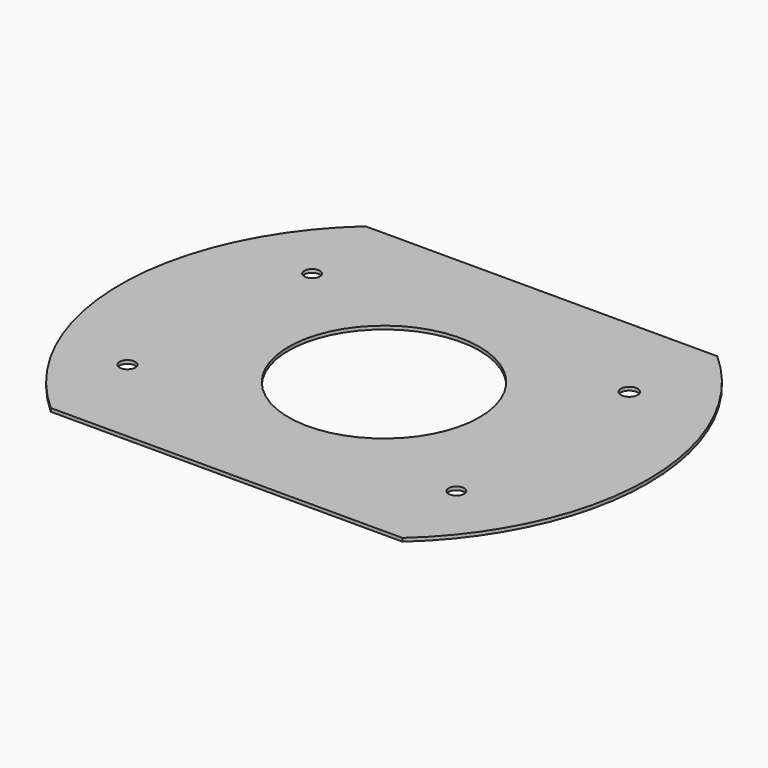
from build123d import *

# Parameters (mm, degrees)
F1_R     = 7.008857
F1_R_2   = 6.918989
F1_R_3   = 6.910628
F1_R_4   = 85
F1_R_5   = 7.545233
F2_DEPTH = 3


with BuildPart() as f2:
    # F1 (on Top) → F2 (new body)
    with BuildSketch(Plane.XY):
        with BuildLine():
            ThreePointArc((133.07327, 178.290789), (197.066851, 100.910925), (219.991151, 3.14949))
            ThreePointArc((219.991151, 3.14949), (197.066851, -94.611945), (133.07327, -171.991809))
            Line((133.07327, -171.991809), (156.635002, -171.991809))
            ThreePointArc((156.635002, -171.991809), (214.509219, -92.785593), (234.991151, 3.14949))
            ThreePointArc((234.991151, 3.14949), (214.509219, 99.084573), (156.635002, 178.290789))
            Line((156.635002, 178.290789), (133.07327, 178.290789))
        make_face()
        with BuildLine():
            ThreePointArc((-132.922132, -171.991809), (-219.840013, 3.14949), (-132.922132, 178.290789))
            Line((-132.922132, 178.290789), (-156.483864, 178.290789))
            ThreePointArc((-156.483864, 178.290789), (-234.840013, 3.14949), (-156.483864, -171.991809))
            Line((-156.483864, -171.991809), (-132.922132, -171.991809))
        make_face()
        with BuildLine():
            ThreePointArc((133.07327, -171.991809), (197.066851, -94.611945), (219.991151, 3.14949))
            ThreePointArc((219.991151, 3.14949), (197.066851, 100.910925), (133.07327, 178.290789))
            Line((133.07327, 178.290789), (-132.922132, 178.290789))
            ThreePointArc((-132.922132, 178.290789), (-219.840013, 3.14949), (-132.922132, -171.991809))
            Line((-132.922132, -171.991809), (133.07327, -171.991809))
        make_face()
        with Locations((-155.586369, -87.818066)):
            Circle(F1_R, mode=Mode.SUBTRACT)
        with Locations((141.81215, -93.474258)):
            Circle(F1_R_2, mode=Mode.SUBTRACT)
        with Locations((-140.995276, 99.463245)):
            Circle(F1_R_3, mode=Mode.SUBTRACT)
        with Locations((0.075569, 3.14949)):
            Circle(F1_R_4, mode=Mode.SUBTRACT)
        with Locations((142.390701, 98.258993)):
            Circle(F1_R_5, mode=Mode.SUBTRACT)
    extrude(amount=F2_DEPTH)


solid = f2.part
